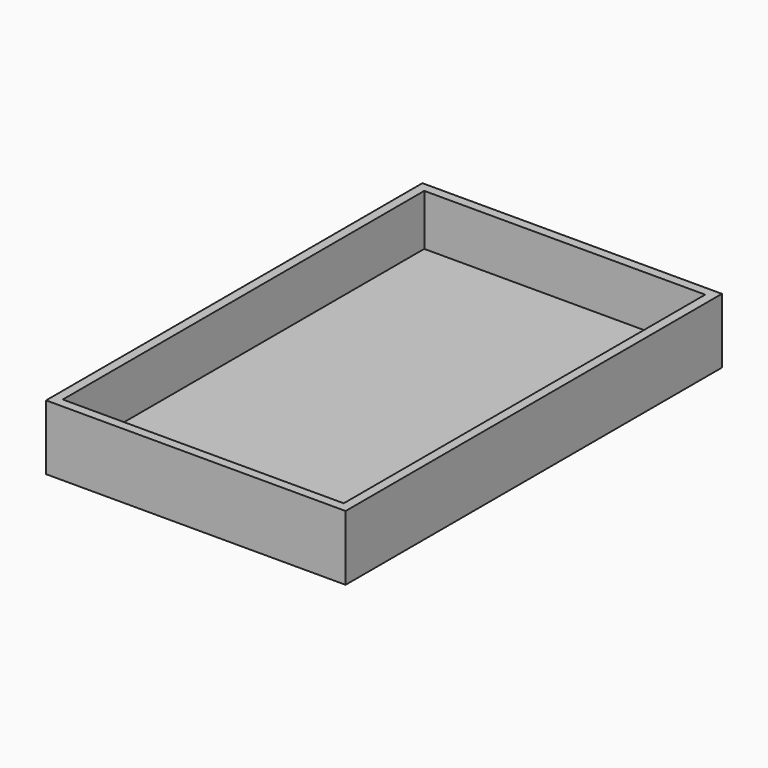
from build123d import *

# Parameters (mm, degrees)
F0_W      = 64.5
F0_H      = 101.3
F1_DEPTH  = 3
F1_FACE_W = 64.5
F1_FACE_H = 101.3
F2_DEPTH  = 11
F3_W      = 60.5
F3_H      = 97.3
F4_DEPTH  = 11


with BuildPart() as f1:
    # F0 (on Top) → F1 (new body)
    with BuildSketch(Plane.XY):
        with Locations((32.25, 50.65)):
            Rectangle(F0_W, F0_H)
    extrude(amount=F1_DEPTH)

    # F1_face (on face) → F2 (join)
    with BuildSketch(Plane(origin=(32.25, 50.65, 3), x_dir=(1, 0, 0), z_dir=(0, 0, 1))):
        Rectangle(F1_FACE_W, F1_FACE_H)
    extrude(amount=F2_DEPTH)

    # F3 (on face) → F4 (cut)
    with BuildSketch(Plane.XY.offset(14)):
        with Locations((32.25, 50.65)):
            Rectangle(F3_W, F3_H)
    extrude(amount=-F4_DEPTH, mode=Mode.SUBTRACT)


solid = f1.part
